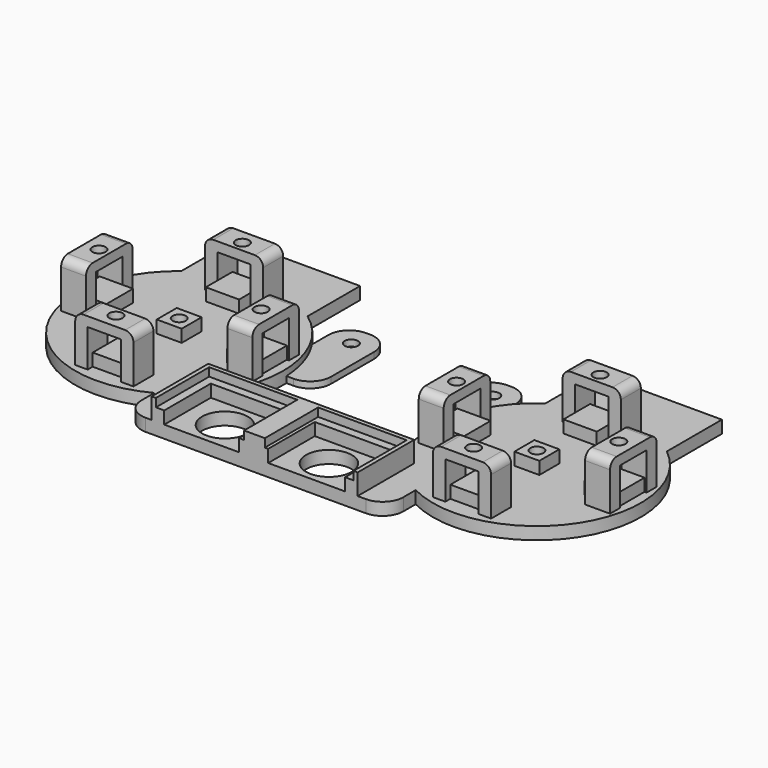
from build123d import *

# Parameters (mm, degrees)
CYLINDER049_R     = 1.6
CYLINDER049_DEPTH = 3
BOX106_W          = 3
BOX106_H          = 6
BOX106_DEPTH      = 9
BOX107_W          = 14
BOX107_H          = 6
BOX107_DEPTH      = 2.3
BOX105_W          = 3
BOX105_H          = 6
BOX105_DEPTH      = 9
FILLET023_R       = 2
CYLINDER051_R     = 1.6
CYLINDER051_DEPTH = 3
BOX112_W          = 6
BOX112_H          = 3
BOX112_DEPTH      = 9
BOX113_W          = 6
BOX113_H          = 14
BOX113_DEPTH      = 2.3
BOX111_W          = 6
BOX111_H          = 3
BOX111_DEPTH      = 9
FILLET022_R       = 2
CYLINDER042_R     = 1.6
CYLINDER042_DEPTH = 3
BOX077_W          = 3
BOX077_H          = 6
BOX077_DEPTH      = 9
BOX076_W          = 3
BOX076_H          = 6
BOX076_DEPTH      = 9
BOX078_W          = 14
BOX078_H          = 6
BOX078_DEPTH      = 2.3
FILLET021_R       = 2
CYLINDER050_R     = 1.6
CYLINDER050_DEPTH = 3
BOX109_W          = 6
BOX109_H          = 3
BOX109_DEPTH      = 9
BOX110_W          = 6
BOX110_H          = 14
BOX110_DEPTH      = 2.3
BOX108_W          = 6
BOX108_H          = 3
BOX108_DEPTH      = 9
FILLET020_R       = 2
CYLINDER040_R     = 1.6
CYLINDER040_DEPTH = 10
CYLINDER036_R     = 25
CYLINDER036_DEPTH = 3
BOX051_W          = 8
BOX051_H          = 8
BOX051_DEPTH      = 3
BOX053_W          = 6
BOX053_H          = 6
BOX053_DEPTH      = 3
BOX049_W          = 8
BOX049_H          = 8
BOX049_DEPTH      = 3
BOX052_W          = 8
BOX052_H          = 8
BOX052_DEPTH      = 3
BOX064_W          = 30
BOX064_H          = 17
BOX064_DEPTH      = 3
BOX050_W          = 8
BOX050_H          = 8
BOX050_DEPTH      = 3
CYLINDER059_R     = 1.6
CYLINDER059_DEPTH = 1.54
BOX146_W          = 11
BOX146_H          = 23
BOX146_DEPTH      = 1.5
FILLET030_R       = 5
FILLET032_R       = 5
CYLINDER058_R     = 1.6
CYLINDER058_DEPTH = 1.54
BOX145_W          = 11
BOX145_H          = 23
BOX145_DEPTH      = 1.5
FILLET029_R       = 5
FILLET031_R       = 5
FILLET033_R       = 5
BOX134_W          = 3
BOX134_H          = 17
BOX134_DEPTH      = 3
BOX135_W          = 3
BOX135_H          = 17
BOX135_DEPTH      = 3
BOX136_W          = 7
BOX136_H          = 14
BOX136_DEPTH      = 3
BOX137_W          = 5
BOX137_H          = 16
BOX137_DEPTH      = 2
BOX138_W          = 47.5
BOX138_H          = 1
BOX138_DEPTH      = 2
BOX140_W          = 1
BOX140_H          = 17
BOX140_DEPTH      = 2
BOX141_W          = 1
BOX141_H          = 17
BOX141_DEPTH      = 2
BOX133_W          = 43.5
BOX133_H          = 3
BOX133_DEPTH      = 3
CYLINDER061_R     = 5.5
CYLINDER061_DEPTH = 3
CYLINDER060_R     = 5.5
CYLINDER060_DEPTH = 3
BOX132_W          = 63
BOX132_H          = 19
BOX132_DEPTH      = 3
FILLET028_R       = 5
FILLET016_R       = 2
FILLET017_R       = 2
FILLET018_R       = 2
FILLET019_R       = 2
CYLINDER037_R     = 1.6
CYLINDER037_DEPTH = 10
BOX047_W          = 8
BOX047_H          = 8
BOX047_DEPTH      = 3
BOX044_W          = 8
BOX044_H          = 8
BOX044_DEPTH      = 3
BOX045_W          = 8
BOX045_H          = 8
BOX045_DEPTH      = 3
BOX063_W          = 30
BOX063_H          = 17
BOX063_DEPTH      = 3
BOX046_W          = 8
BOX046_H          = 8
BOX046_DEPTH      = 3
CYLINDER035_R     = 25
CYLINDER035_DEPTH = 3
BOX048_W          = 6
BOX048_H          = 6
BOX048_DEPTH      = 3


with BuildPart() as cylinder100:
    # Cylinder049 → Cylinder049 (new body)
    with BuildSketch(Plane(origin=(16.3, 33, 6), x_dir=(1, 0, 0), z_dir=(0, 0, 1))):
        Circle(CYLINDER049_R)
    extrude(amount=CYLINDER049_DEPTH)


with BuildPart() as cube096:
    # Box106 → Box106 (new body)
    with BuildSketch(Plane(origin=(20.3, 30.5, -3), x_dir=(1, 0, 0), z_dir=(0, 0, 1))):
        with Locations((1.5, 3)):
            Rectangle(BOX106_W, BOX106_H)
    extrude(amount=BOX106_DEPTH)


with BuildPart() as cube097:
    # Box107 → Box107 (new body)
    with BuildSketch(Plane(origin=(9.3, 30.5, 6), x_dir=(1, 0, 0), z_dir=(0, 0, 1))):
        with Locations((7, 3)):
            Rectangle(BOX107_W, BOX107_H)
    extrude(amount=BOX107_DEPTH)


with BuildPart() as fusion039:
    # Box105 → Box105 (new body)
    with BuildSketch(Plane(origin=(9.3, 30.5, -3), x_dir=(1, 0, 0), z_dir=(0, 0, 1))):
        with Locations((1.5, 3)):
            Rectangle(BOX105_W, BOX105_H)
    extrude(amount=BOX105_DEPTH)

    # Fusion039: union Cube096, Cube097
    add(cube096.part)
    add(cube097.part)


with BuildPart() as fillet023:
    # Cut069 base: copy of Fusion039
    add(fusion039.part)

    # Cut069: cut Cylinder100
    add(cylinder100.part, mode=Mode.SUBTRACT)

    # Fillet023
    fillet023_edges = [fillet023.edges().sort_by_distance(p)[0] for p in [
        (9.3, 33.5, 8.3),
        (23.3, 33.5, 8.3),
    ]]
    fillet(fillet023_edges, radius=FILLET023_R)


with BuildPart() as fillet023_1:
    # Fillet023 placement: moved
    add(fillet023.part.moved(Location((86, 0, 0))))


with BuildPart() as cylinder132:
    # Cylinder051 → Cylinder051 (new body)
    with BuildSketch(Plane(origin=(36, 14, 6), x_dir=(1, 0, 0), z_dir=(0, 0, 1))):
        Circle(CYLINDER051_R)
    extrude(amount=CYLINDER051_DEPTH)


with BuildPart() as cube102:
    # Box112 → Box112 (new body)
    with BuildSketch(Plane(origin=(33.5, 7, -3), x_dir=(1, 0, 0), z_dir=(0, 0, 1))):
        with Locations((3, 1.5)):
            Rectangle(BOX112_W, BOX112_H)
    extrude(amount=BOX112_DEPTH)


with BuildPart() as cube103:
    # Box113 → Box113 (new body)
    with BuildSketch(Plane(origin=(33.5, 7, 6), x_dir=(1, 0, 0), z_dir=(0, 0, 1))):
        with Locations((3, 7)):
            Rectangle(BOX113_W, BOX113_H)
    extrude(amount=BOX113_DEPTH)


with BuildPart() as fusion042:
    # Box111 → Box111 (new body)
    with BuildSketch(Plane(origin=(33.5, 18, -3), x_dir=(1, 0, 0), z_dir=(0, 0, 1))):
        with Locations((3, 1.5)):
            Rectangle(BOX111_W, BOX111_H)
    extrude(amount=BOX111_DEPTH)

    # Fusion042: union Cube102, Cube103
    add(cube102.part)
    add(cube103.part)


with BuildPart() as fillet022:
    # Cut068 base: copy of Fusion042
    add(fusion042.part)

    # Cut068: cut Cylinder132
    add(cylinder132.part, mode=Mode.SUBTRACT)

    # Fillet022
    fillet022_edges = [fillet022.edges().sort_by_distance(p)[0] for p in [
        (36.5, 21, 8.3),
        (36.5, 7, 8.3),
    ]]
    fillet(fillet022_edges, radius=FILLET022_R)


with BuildPart() as fillet022_1:
    # Fillet022 placement: moved
    add(fillet022.part.moved(Location((86, 0, 0))))


with BuildPart() as cylinder097:
    # Cylinder042 → Cylinder042 (new body)
    with BuildSketch(Plane(origin=(16.3, -5, 6), x_dir=(1, 0, 0), z_dir=(0, 0, 1))):
        Circle(CYLINDER042_R)
    extrude(amount=CYLINDER042_DEPTH)


with BuildPart() as cube067:
    # Box077 → Box077 (new body)
    with BuildSketch(Plane(origin=(20.3, -8.5, -3), x_dir=(1, 0, 0), z_dir=(0, 0, 1))):
        with Locations((1.5, 3)):
            Rectangle(BOX077_W, BOX077_H)
    extrude(amount=BOX077_DEPTH)


with BuildPart() as cube066:
    # Box076 → Box076 (new body)
    with BuildSketch(Plane(origin=(9.3, -8.5, -3), x_dir=(1, 0, 0), z_dir=(0, 0, 1))):
        with Locations((1.5, 3)):
            Rectangle(BOX076_W, BOX076_H)
    extrude(amount=BOX076_DEPTH)


with BuildPart() as fusion041:
    # Box078 → Box078 (new body)
    with BuildSketch(Plane(origin=(9.3, -8.5, 6), x_dir=(1, 0, 0), z_dir=(0, 0, 1))):
        with Locations((7, 3)):
            Rectangle(BOX078_W, BOX078_H)
    extrude(amount=BOX078_DEPTH)

    # Fusion041: union Cube067, Cube066
    add(cube067.part)
    add(cube066.part)


with BuildPart() as fillet021:
    # Cut067 base: copy of Fusion041
    add(fusion041.part)

    # Cut067: cut Cylinder097
    add(cylinder097.part, mode=Mode.SUBTRACT)

    # Fillet021
    fillet021_edges = [fillet021.edges().sort_by_distance(p)[0] for p in [
        (9.3, -5.5, 8.3),
        (23.3, -5.5, 8.3),
    ]]
    fillet(fillet021_edges, radius=FILLET021_R)


with BuildPart() as fillet021_1:
    # Fillet021 placement: moved
    add(fillet021.part.moved(Location((86, 0, 0))))


with BuildPart() as cylinder131:
    # Cylinder050 → Cylinder050 (new body)
    with BuildSketch(Plane(origin=(-3, 14, 6), x_dir=(1, 0, 0), z_dir=(0, 0, 1))):
        Circle(CYLINDER050_R)
    extrude(amount=CYLINDER050_DEPTH)


with BuildPart() as cube099:
    # Box109 → Box109 (new body)
    with BuildSketch(Plane(origin=(-6.5, 7, -3), x_dir=(1, 0, 0), z_dir=(0, 0, 1))):
        with Locations((3, 1.5)):
            Rectangle(BOX109_W, BOX109_H)
    extrude(amount=BOX109_DEPTH)


with BuildPart() as cube100:
    # Box110 → Box110 (new body)
    with BuildSketch(Plane(origin=(-6.5, 7, 6), x_dir=(1, 0, 0), z_dir=(0, 0, 1))):
        with Locations((3, 7)):
            Rectangle(BOX110_W, BOX110_H)
    extrude(amount=BOX110_DEPTH)


with BuildPart() as fusion040:
    # Box108 → Box108 (new body)
    with BuildSketch(Plane(origin=(-6.5, 18, -3), x_dir=(1, 0, 0), z_dir=(0, 0, 1))):
        with Locations((3, 1.5)):
            Rectangle(BOX108_W, BOX108_H)
    extrude(amount=BOX108_DEPTH)

    # Fusion040: union Cube099, Cube100
    add(cube099.part)
    add(cube100.part)


with BuildPart() as fillet020:
    # Cut066 base: copy of Fusion040
    add(fusion040.part)

    # Cut066: cut Cylinder131
    add(cylinder131.part, mode=Mode.SUBTRACT)

    # Fillet020
    fillet020_edges = [fillet020.edges().sort_by_distance(p)[0] for p in [
        (-3.5, 21, 8.3),
        (-3.5, 7, 8.3),
    ]]
    fillet(fillet020_edges, radius=FILLET020_R)


with BuildPart() as fillet020_1:
    # Fillet020 placement: moved
    add(fillet020.part.moved(Location((86, 0, 0))))


with BuildPart() as cylinder127:
    # Cylinder040 → Cylinder040 (new body)
    with BuildSketch(Plane(origin=(124.31, 14, -8), x_dir=(1, 0, 0), z_dir=(0, 0, 1))):
        Circle(CYLINDER040_R)
    extrude(amount=CYLINDER040_DEPTH)


with BuildPart() as cylinder123:
    # Cylinder036 → Cylinder036 (new body)
    with BuildSketch(Plane(origin=(124.3, 14, -6), x_dir=(1, 0, 0), z_dir=(0, 0, 1))):
        Circle(CYLINDER036_R)
    extrude(amount=CYLINDER036_DEPTH)


with BuildPart() as cube041:
    # Box051 → Box051 (new body)
    with BuildSketch(Plane(origin=(102, 10, -3), x_dir=(1, 0, 0), z_dir=(0, 0, 1))):
        with Locations((4, 4)):
            Rectangle(BOX051_W, BOX051_H)
    extrude(amount=BOX051_DEPTH)


with BuildPart() as cube043:
    # Box053 → Box053 (new body)
    with BuildSketch(Plane(origin=(121.3, 11, -3), x_dir=(1, 0, 0), z_dir=(0, 0, 1))):
        with Locations((3, 3)):
            Rectangle(BOX053_W, BOX053_H)
    extrude(amount=BOX053_DEPTH)


with BuildPart() as cube039:
    # Box049 → Box049 (new body)
    with BuildSketch(Plane(origin=(120.3, 27, -3), x_dir=(1, 0, 0), z_dir=(0, 0, 1))):
        with Locations((4, 4)):
            Rectangle(BOX049_W, BOX049_H)
    extrude(amount=BOX049_DEPTH)


with BuildPart() as cube042:
    # Box052 → Box052 (new body)
    with BuildSketch(Plane(origin=(139, 10, -3), x_dir=(1, 0, 0), z_dir=(0, 0, 1))):
        with Locations((4, 4)):
            Rectangle(BOX052_W, BOX052_H)
    extrude(amount=BOX052_DEPTH)


with BuildPart() as cube054:
    # Box064 → Box064 (new body)
    with BuildSketch(Plane(origin=(110, 33, -6), x_dir=(1, 0, 0), z_dir=(0, 0, 1))):
        with Locations((15, 8.5)):
            Rectangle(BOX064_W, BOX064_H)
    extrude(amount=BOX064_DEPTH)


with BuildPart() as fusion044:
    # Box050 → Box050 (new body)
    with BuildSketch(Plane(origin=(120.3, -7, -3), x_dir=(1, 0, 0), z_dir=(0, 0, 1))):
        with Locations((4, 4)):
            Rectangle(BOX050_W, BOX050_H)
    extrude(amount=BOX050_DEPTH)

    # Fusion037: union Cylinder123, Cube041, Cube043, Cube039, Cube042, Cube054
    add(cylinder123.part)
    add(cube041.part)
    add(cube043.part)
    add(cube039.part)
    add(cube042.part)
    add(cube054.part)

    # Cut041: cut Cylinder127
    add(cylinder127.part, mode=Mode.SUBTRACT)


with BuildPart() as fusion044_1:
    # Cut041 placement: moved
    add(fusion044.part.moved(Location((-22, 0, 0))))

    # Fusion044: union Fillet023, Fillet022, Fillet021, Fillet020
    add(fillet023_1.part)
    add(fillet022_1.part)
    add(fillet021_1.part)
    add(fillet020_1.part)


with BuildPart() as cylinder140:
    # Cylinder059 → Cylinder059 (new body)
    with BuildSketch(Plane(origin=(76.5, 33, -6), x_dir=(1, 0, 0), z_dir=(0, 0, 1))):
        Circle(CYLINDER059_R)
    extrude(amount=CYLINDER059_DEPTH)


with BuildPart() as fillet032:
    # Box146 → Box146 (new body)
    with BuildSketch(Plane(origin=(71, 15, -6), x_dir=(1, 0, 0), z_dir=(0, 0, 1))):
        with Locations((5.5, 11.5)):
            Rectangle(BOX146_W, BOX146_H)
    extrude(amount=BOX146_DEPTH)

    # Fillet030
    fillet030_edges = [fillet032.edges().sort_by_distance(p)[0] for p in [
        (82, 38, -5.25),
    ]]
    fillet(fillet030_edges, radius=FILLET030_R)

    # Cut083: cut Cylinder140
    add(cylinder140.part, mode=Mode.SUBTRACT)

    # Fillet032
    fillet032_edges = [fillet032.edges().sort_by_distance(p)[0] for p in [
        (71, 15, -5.25),
        (71, 38, -5.25),
    ]]
    fillet(fillet032_edges, radius=FILLET032_R)


with BuildPart() as cylinder139:
    # Cylinder058 → Cylinder058 (new body)
    with BuildSketch(Plane(origin=(42.5, 33, -6), x_dir=(1, 0, 0), z_dir=(0, 0, 1))):
        Circle(CYLINDER058_R)
    extrude(amount=CYLINDER058_DEPTH)


with BuildPart() as fillet033:
    # Box145 → Box145 (new body)
    with BuildSketch(Plane(origin=(37, 15, -6), x_dir=(1, 0, 0), z_dir=(0, 0, 1))):
        with Locations((5.5, 11.5)):
            Rectangle(BOX145_W, BOX145_H)
    extrude(amount=BOX145_DEPTH)

    # Fillet029
    fillet029_edges = [fillet033.edges().sort_by_distance(p)[0] for p in [
        (37, 38, -5.25),
    ]]
    fillet(fillet029_edges, radius=FILLET029_R)

    # Cut082: cut Cylinder139
    add(cylinder139.part, mode=Mode.SUBTRACT)

    # Fillet031
    fillet031_edges = [fillet033.edges().sort_by_distance(p)[0] for p in [
        (48, 15, -5.25),
    ]]
    fillet(fillet031_edges, radius=FILLET031_R)

    # Fillet033
    fillet033_edges = [fillet033.edges().sort_by_distance(p)[0] for p in [
        (48, 38, -5.25),
    ]]
    fillet(fillet033_edges, radius=FILLET033_R)


with BuildPart() as cube123:
    # Box134 → Box134 (new body)
    with BuildSketch(Plane(origin=(34.5, -17, -3), x_dir=(1, 0, 0), z_dir=(0, 0, 1))):
        with Locations((1.5, 8.5)):
            Rectangle(BOX134_W, BOX134_H)
    extrude(amount=BOX134_DEPTH)


with BuildPart() as cube124:
    # Box135 → Box135 (new body)
    with BuildSketch(Plane(origin=(81, -17, -3), x_dir=(1, 0, 0), z_dir=(0, 0, 1))):
        with Locations((1.5, 8.5)):
            Rectangle(BOX135_W, BOX135_H)
    extrude(amount=BOX135_DEPTH)


with BuildPart() as cube125:
    # Box136 → Box136 (new body)
    with BuildSketch(Plane(origin=(55.5, -17, -3), x_dir=(1, 0, 0), z_dir=(0, 0, 1))):
        with Locations((3.5, 7)):
            Rectangle(BOX136_W, BOX136_H)
    extrude(amount=BOX136_DEPTH)


with BuildPart() as cube126:
    # Box137 → Box137 (new body)
    with BuildSketch(Plane(origin=(56.7, -17, 0), x_dir=(1, 0, 0), z_dir=(0, 0, 1))):
        with Locations((2.5, 8)):
            Rectangle(BOX137_W, BOX137_H)
    extrude(amount=BOX137_DEPTH)


with BuildPart() as cube127:
    # Box138 → Box138 (new body)
    with BuildSketch(Plane(origin=(35.5, -1, 0), x_dir=(1, 0, 0), z_dir=(0, 0, 1))):
        with Locations((23.75, 0.5)):
            Rectangle(BOX138_W, BOX138_H)
    extrude(amount=BOX138_DEPTH)


with BuildPart() as cube129:
    # Box140 → Box140 (new body)
    with BuildSketch(Plane(origin=(34.5, -17, 0), x_dir=(1, 0, 0), z_dir=(0, 0, 1))):
        with Locations((0.5, 8.5)):
            Rectangle(BOX140_W, BOX140_H)
    extrude(amount=BOX140_DEPTH)


with BuildPart() as cube130:
    # Box141 → Box141 (new body)
    with BuildSketch(Plane(origin=(83, -17, 0), x_dir=(1, 0, 0), z_dir=(0, 0, 1))):
        with Locations((0.5, 8.5)):
            Rectangle(BOX141_W, BOX141_H)
    extrude(amount=BOX141_DEPTH)


with BuildPart() as fusion046:
    # Box133 → Box133 (new body)
    with BuildSketch(Plane(origin=(37.5, -3, -3), x_dir=(1, 0, 0), z_dir=(0, 0, 1))):
        with Locations((21.75, 1.5)):
            Rectangle(BOX133_W, BOX133_H)
    extrude(amount=BOX133_DEPTH)

    # Fusion046: union Cube123, Cube124, Cube125, Cube126, Cube127, Cube129, Cube130
    add(cube123.part)
    add(cube124.part)
    add(cube125.part)
    add(cube126.part)
    add(cube127.part)
    add(cube129.part)
    add(cube130.part)


with BuildPart() as cylinder142:
    # Cylinder061 → Cylinder061 (new body)
    with BuildSketch(Plane(origin=(71.5, -10, -6), x_dir=(1, 0, 0), z_dir=(0, 0, 1))):
        Circle(CYLINDER061_R)
    extrude(amount=CYLINDER061_DEPTH)


with BuildPart() as cylinder141:
    # Cylinder060 → Cylinder060 (new body)
    with BuildSketch(Plane(origin=(46.5, -10, -6), x_dir=(1, 0, 0), z_dir=(0, 0, 1))):
        Circle(CYLINDER060_R)
    extrude(amount=CYLINDER060_DEPTH)


with BuildPart() as cut085:
    # Box132 → Box132 (new body)
    with BuildSketch(Plane(origin=(28, -17, -6), x_dir=(1, 0, 0), z_dir=(0, 0, 1))):
        with Locations((31.5, 9.5)):
            Rectangle(BOX132_W, BOX132_H)
    extrude(amount=BOX132_DEPTH)

    # Fillet028
    fillet028_edges = [cut085.edges().sort_by_distance(p)[0] for p in [
        (28, -17, -4.5),
        (91, -17, -4.5),
    ]]
    fillet(fillet028_edges, radius=FILLET028_R)

    # Cut084: cut Cylinder141
    add(cylinder141.part, mode=Mode.SUBTRACT)

    # Cut085: cut Cylinder142
    add(cylinder142.part, mode=Mode.SUBTRACT)


with BuildPart() as fillet016:
    # Cut044 base: copy of Fusion040
    add(fusion040.part)

    # Cut044: cut Cylinder131
    add(cylinder131.part, mode=Mode.SUBTRACT)

    # Fillet016
    fillet016_edges = [fillet016.edges().sort_by_distance(p)[0] for p in [
        (-3.5, 21, 8.3),
        (-3.5, 7, 8.3),
    ]]
    fillet(fillet016_edges, radius=FILLET016_R)


with BuildPart() as fillet017:
    # Cut045 base: copy of Fusion041
    add(fusion041.part)

    # Cut045: cut Cylinder097
    add(cylinder097.part, mode=Mode.SUBTRACT)

    # Fillet017
    fillet017_edges = [fillet017.edges().sort_by_distance(p)[0] for p in [
        (9.3, -5.5, 8.3),
        (23.3, -5.5, 8.3),
    ]]
    fillet(fillet017_edges, radius=FILLET017_R)


with BuildPart() as fillet018:
    # Cut046 base: copy of Fusion042
    add(fusion042.part)

    # Cut046: cut Cylinder132
    add(cylinder132.part, mode=Mode.SUBTRACT)

    # Fillet018
    fillet018_edges = [fillet018.edges().sort_by_distance(p)[0] for p in [
        (36.5, 21, 8.3),
        (36.5, 7, 8.3),
    ]]
    fillet(fillet018_edges, radius=FILLET018_R)


with BuildPart() as fillet019:
    # Cut043 base: copy of Fusion039
    add(fusion039.part)

    # Cut043: cut Cylinder100
    add(cylinder100.part, mode=Mode.SUBTRACT)

    # Fillet019
    fillet019_edges = [fillet019.edges().sort_by_distance(p)[0] for p in [
        (9.3, 33.5, 8.3),
        (23.3, 33.5, 8.3),
    ]]
    fillet(fillet019_edges, radius=FILLET019_R)


with BuildPart() as cylinder124:
    # Cylinder037 → Cylinder037 (new body)
    with BuildSketch(Plane(origin=(16.31, 14, -8), x_dir=(1, 0, 0), z_dir=(0, 0, 1))):
        Circle(CYLINDER037_R)
    extrude(amount=CYLINDER037_DEPTH)


with BuildPart() as cube037:
    # Box047 → Box047 (new body)
    with BuildSketch(Plane(origin=(31, 10, -3), x_dir=(1, 0, 0), z_dir=(0, 0, 1))):
        with Locations((4, 4)):
            Rectangle(BOX047_W, BOX047_H)
    extrude(amount=BOX047_DEPTH)


with BuildPart() as cube034:
    # Box044 → Box044 (new body)
    with BuildSketch(Plane(origin=(12.3, -7, -3), x_dir=(1, 0, 0), z_dir=(0, 0, 1))):
        with Locations((4, 4)):
            Rectangle(BOX044_W, BOX044_H)
    extrude(amount=BOX044_DEPTH)


with BuildPart() as cube035:
    # Box045 → Box045 (new body)
    with BuildSketch(Plane(origin=(12.3, 27, -3), x_dir=(1, 0, 0), z_dir=(0, 0, 1))):
        with Locations((4, 4)):
            Rectangle(BOX045_W, BOX045_H)
    extrude(amount=BOX045_DEPTH)


with BuildPart() as cube053:
    # Box063 → Box063 (new body)
    with BuildSketch(Plane(origin=(1, 33, -6), x_dir=(1, 0, 0), z_dir=(0, 0, 1))):
        with Locations((15, 8.5)):
            Rectangle(BOX063_W, BOX063_H)
    extrude(amount=BOX063_DEPTH)


with BuildPart() as cube036:
    # Box046 → Box046 (new body)
    with BuildSketch(Plane(origin=(-6, 10, -3), x_dir=(1, 0, 0), z_dir=(0, 0, 1))):
        with Locations((4, 4)):
            Rectangle(BOX046_W, BOX046_H)
    extrude(amount=BOX046_DEPTH)


with BuildPart() as cylinder122:
    # Cylinder035 → Cylinder035 (new body)
    with BuildSketch(Plane(origin=(16.3, 14, -6), x_dir=(1, 0, 0), z_dir=(0, 0, 1))):
        Circle(CYLINDER035_R)
    extrude(amount=CYLINDER035_DEPTH)


with BuildPart() as fusion048:
    # Box048 → Box048 (new body)
    with BuildSketch(Plane(origin=(13.3, 11, -3), x_dir=(1, 0, 0), z_dir=(0, 0, 1))):
        with Locations((3, 3)):
            Rectangle(BOX048_W, BOX048_H)
    extrude(amount=BOX048_DEPTH)

    # Fusion036: union Cube037, Cube034, Cube035, Cube053, Cube036, Cylinder122
    add(cube037.part)
    add(cube034.part)
    add(cube035.part)
    add(cube053.part)
    add(cube036.part)
    add(cylinder122.part)

    # Cut040: cut Cylinder124
    add(cylinder124.part, mode=Mode.SUBTRACT)

    # Fusion043: union Fillet016, Fillet017, Fillet018, Fillet019
    add(fillet016.part)
    add(fillet017.part)
    add(fillet018.part)
    add(fillet019.part)

    # Fusion048: union Fusion044, Fillet032, Fillet033, Fusion046, Cut085
    add(fusion044_1.part)
    add(fillet032.part)
    add(fillet033.part)
    add(fusion046.part)
    add(cut085.part)


solid = fusion048.part
